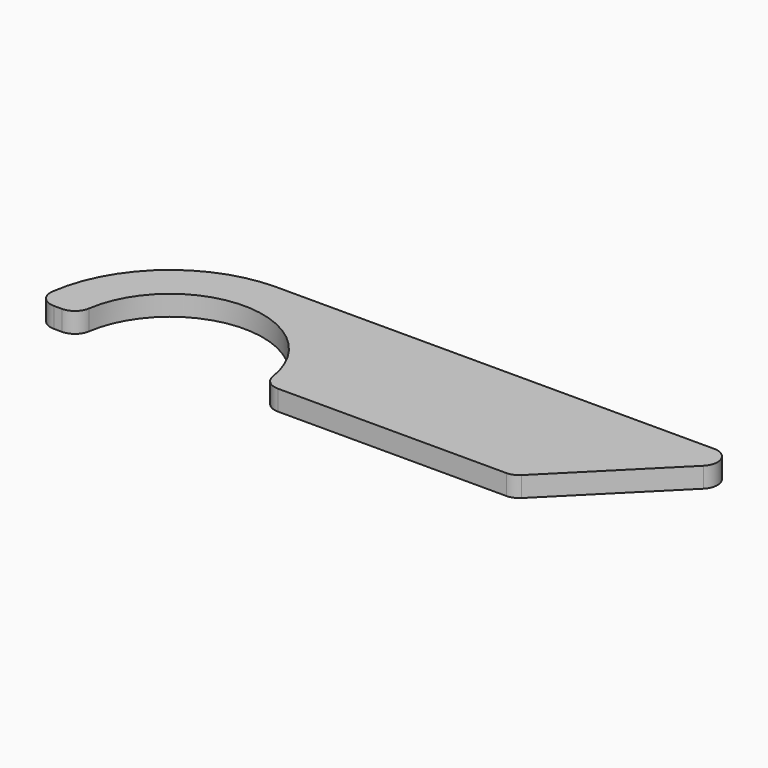
from build123d import *

# Parameters (mm, degrees)
F1_DEPTH = 3.175
F2_R     = 5.08


with BuildPart() as f1:
    # F0 (on Top) → F1 (new body, symmetric)
    with BuildSketch(Plane.XY):
        with BuildLine():
            ThreePointArc((-29.21, 0), (0, 29.21), (29.21, 0))
            Line((29.21, 0), (41.91, 0))
            Line((41.91, 0), (107.823, 0))
            Line((107.823, 0), (149.733, 41.91))
            Line((149.733, 41.91), (0, 41.91))
            ThreePointArc((0, 41.91), (-29.634845, 29.634845), (-41.91, 0))
            Line((-41.91, 0), (-29.21, 0))
        make_face()
    extrude(amount=F1_DEPTH, both=True)

    # F2
    f2_edges = [f1.edges().sort_by_distance(p)[0] for p in [
        (149.733, 41.91, 0),
        (107.823, 0, 0),
        (29.21, 0, 0),
        (-29.21, 0, 0),
        (-41.91, 0, 0),
    ]]
    fillet(f2_edges, radius=F2_R)


solid = f1.part
